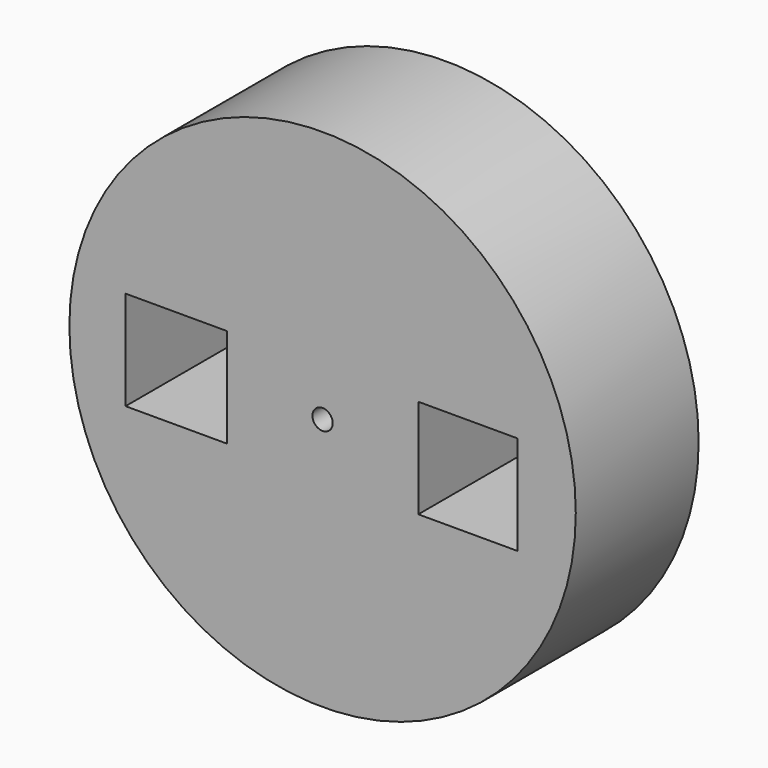
from build123d import *

# Parameters (mm, degrees)
F0_R     = 25.549841
F0_W     = 10.219937
F0_H     = 10
F0_W_2   = 10
F0_R_2   = 1.021994
F1_DEPTH = 15.494


with BuildPart() as f1:
    # F0 (on Front) → F1 (new body)
    with BuildSketch(Plane.XZ):
        Circle(F0_R)
        with Locations((-14.770752, -0.28514)):
            Rectangle(F0_W, F0_H, mode=Mode.SUBTRACT)
        with Locations((14.660793, -0.28514)):
            Rectangle(F0_W_2, F0_H, mode=Mode.SUBTRACT)
        Circle(F0_R_2, mode=Mode.SUBTRACT)
    extrude(amount=F1_DEPTH)


solid = f1.part
